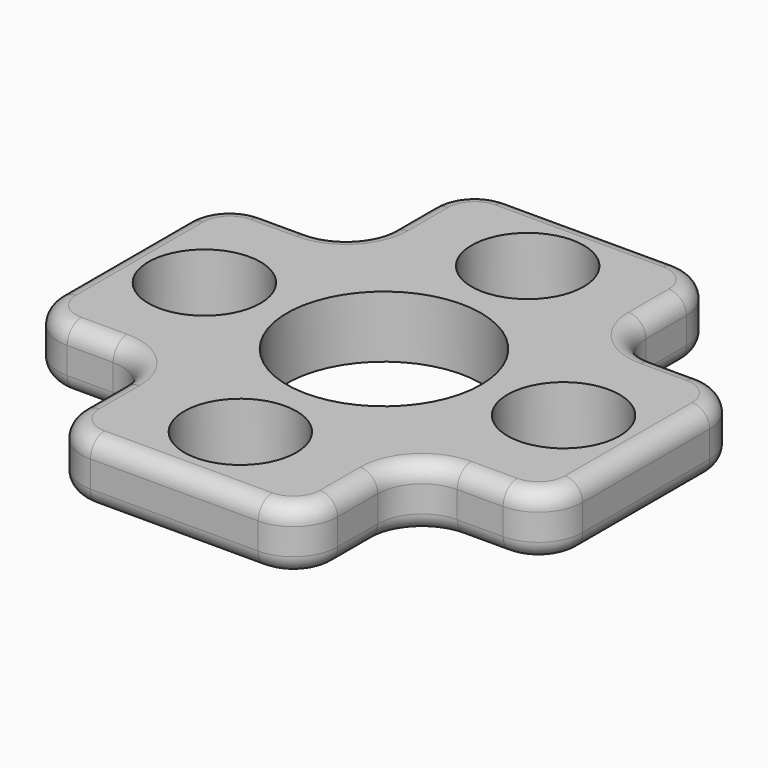
from build123d import *

# Parameters (mm, degrees)
F1_DEPTH = 7
F2_R     = 11
F3_DEPTH = 47.4
F4_R     = 6.35
F5_DEPTH = 12.5
F6_R     = 5
F7_R     = 5
F8_R     = 2


with BuildPart() as f1:
    # F0 (on Top) → F1 (new body)
    with BuildSketch(Plane.XY):
        Polygon((-14.5, 14), (-29.7, 14), (-29.7, -14), (-14.5, -14), (-14.5, -29.7), (14.5, -29.7), (14.5, -14), (29.7, -14), (29.7, 14), (14.5, 14), (14.5, 29.7), (-14.5, 29.7), align=None)
    extrude(amount=F1_DEPTH)

    # F2 (on Top) → F3 (cut)
    with BuildSketch(Plane.XY):
        Circle(F2_R)
    extrude(amount=F3_DEPTH, mode=Mode.SUBTRACT)

    # F4 (on Top) → F5 (cut, symmetric)
    with BuildSketch(Plane.XY):
        with Locations((-20.35, 0)):
            Circle(F4_R)
        with Locations((20.35, 0)):
            Circle(F4_R)
        with Locations((0, 20.35)):
            Circle(F4_R)
        with Locations((0, -20.35)):
            Circle(F4_R)
    extrude(amount=F5_DEPTH, both=True, mode=Mode.SUBTRACT)

    # F6
    f6_edges = [f1.edges().sort_by_distance(p)[0] for p in [
        (14.5, -14, 3.5),
        (14.5, 14, 3.5),
        (-14.5, 14, 3.5),
        (-14.5, -14, 3.5),
    ]]
    fillet(f6_edges, radius=F6_R)

    # F7
    f7_edges = [f1.edges().sort_by_distance(p)[0] for p in [
        (14.5, -29.7, 3.5),
        (-14.5, -29.7, 3.5),
        (29.7, -14, 3.5),
        (29.7, 14, 3.5),
        (14.5, 29.7, 3.5),
        (-14.5, 29.7, 3.5),
        (-29.7, 14, 3.5),
        (-29.7, -14, 3.5),
    ]]
    fillet(f7_edges, radius=F7_R)

    # F8
    f8_edges = [f1.edges().sort_by_distance(p)[0] for p in [
        (0, -29.7, 7),
        (0, -29.7, 0),
    ]]
    fillet(f8_edges, radius=F8_R)


solid = f1.part
